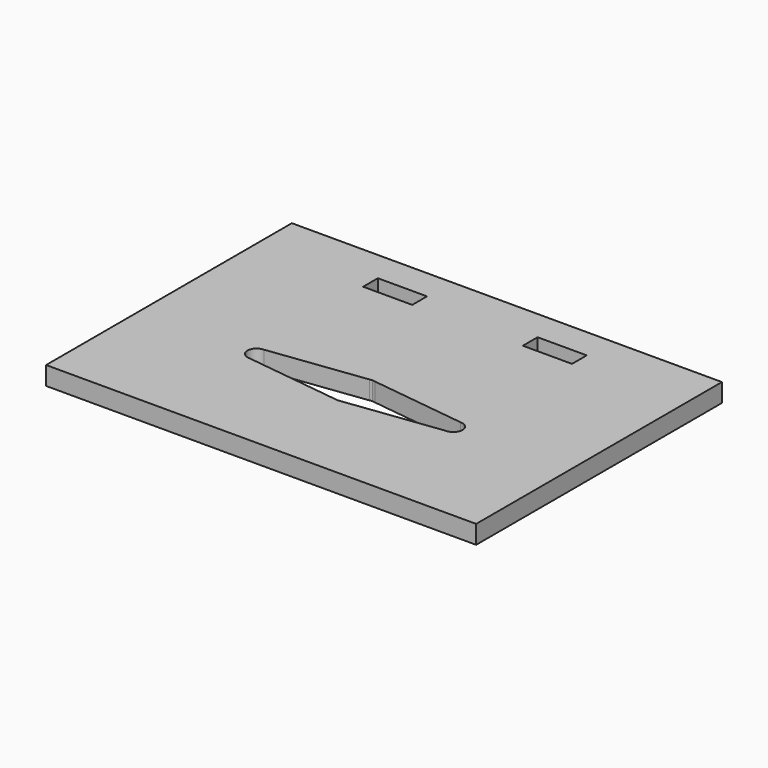
from build123d import *

# Parameters (mm, degrees)
F0_W     = 70
F0_H     = 50
F0_W_2   = 8
F0_H_2   = 3
F1_DEPTH = 3


with BuildPart() as f1:
    # F0 (on Top) → F1 (new body)
    with BuildSketch(Plane.XY):
        with Locations((0, 5.899934)):
            Rectangle(F0_W, F0_H)
        with BuildLine():
            Line((0, 3.528003), (0.440104, 3.472219))
            Line((0.440104, 3.472219), (16, 1.5))
            ThreePointArc((16, 1.5), (17.5, 0), (16, -1.5))
            Line((16, -1.5), (0.440104, -3.472219))
            Line((0.440104, -3.472219), (0, -3.528003))
            Line((0, -3.528003), (-0.440104, -3.472219))
            Line((-0.440104, -3.472219), (-16, -1.5))
            ThreePointArc((-16, -1.5), (-17.5, 0), (-16, 1.5))
            Line((-16, 1.5), (-0.440104, 3.472219))
            Line((-0.440104, 3.472219), (0, 3.528003))
        make_face(mode=Mode.SUBTRACT)
        with Locations((-13, 24.399934)):
            Rectangle(F0_W_2, F0_H_2, mode=Mode.SUBTRACT)
        with Locations((13, 24.399934)):
            Rectangle(F0_W_2, F0_H_2, mode=Mode.SUBTRACT)
    extrude(amount=F1_DEPTH)


solid = f1.part
